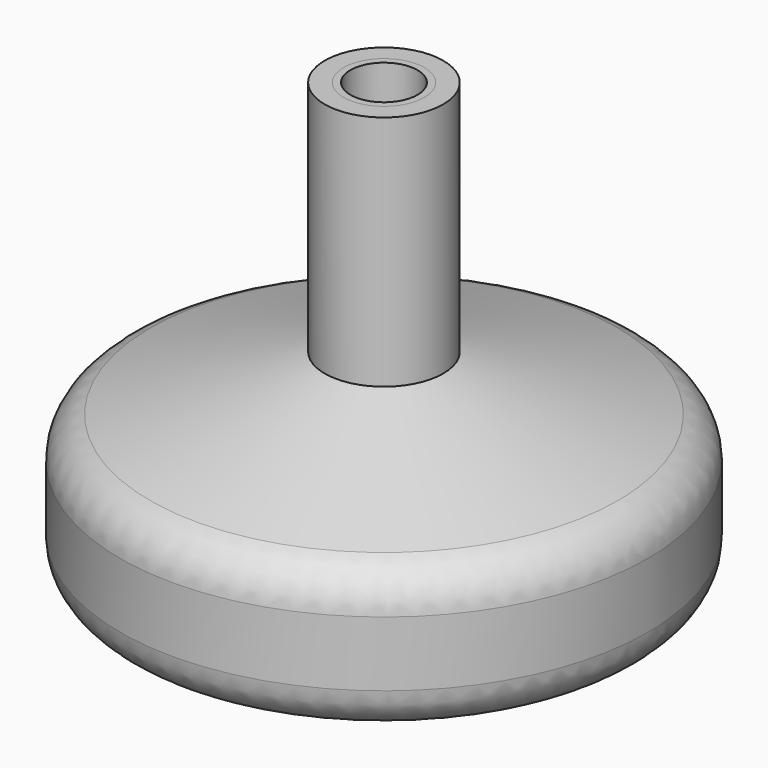
from build123d import *

# Parameters (mm, degrees)
F2_R      = 4.7625
F3_DEPTH  = 9.525
F4_R      = 1.5875
F5_DEPTH  = 9.525
F3_FACE_R = 4.7625
F6_DEPTH  = 9.525
F7_R      = 3.954416
F8_DEPTH  = 9.525
F5_FACE_R = 1.5875
F9_DEPTH  = 11.43
F10_R     = 5.08


with BuildPart() as f1:
    # F0 (on Front) → F1 (revolve)
    with BuildSketch(Plane.XZ):
        Polygon((3.81, 4.445), (31.115, 12.065), (31.115, 27.305), (6.985, 34.925), (6.985, 62.865), (0, 62.865), (0, 4.445), align=None)
    revolve(axis=Axis((0, 0, 33.655), (0, 0, -1)))

    # F2 (on face) → F3 (cut)
    with BuildSketch(Plane.XY.offset(62.865)):
        Circle(F2_R)
    extrude(amount=-F3_DEPTH, mode=Mode.SUBTRACT)

    # F4 (on face) → F5 (cut)
    with BuildSketch(Plane(origin=(0, 0, 4.445), x_dir=(1, 0, 0), z_dir=(0, 0, -1))):
        Circle(F4_R)
    extrude(amount=-F5_DEPTH, mode=Mode.SUBTRACT)

    # F10
    f10_edges = [f1.edges().sort_by_distance(p)[0] for p in [
        (-31.115, 0, 12.065),
        (-31.115, 0, 27.305),
        (31.115, 0, 19.685),
    ]]
    fillet(f10_edges, radius=F10_R)


with BuildPart() as f6:
    # F3_face (on face) → F6 (new body)
    with BuildSketch(Plane.XY.offset(53.34)):
        Circle(F3_FACE_R)
    extrude(amount=F6_DEPTH)

    # F7 (on face) → F8 (cut)
    with BuildSketch(Plane.XY.offset(62.865)):
        Circle(F7_R)
    extrude(amount=-F8_DEPTH, mode=Mode.SUBTRACT)


with BuildPart() as f9:
    # F5_face (on face) → F9 (new body)
    with BuildSketch(Plane(origin=(0, 0, 13.97), x_dir=(1, 0, 0), z_dir=(0, 0, -1))):
        Circle(F5_FACE_R)
    extrude(amount=F9_DEPTH)


solid = Compound([f1.part, f6.part, f9.part])
